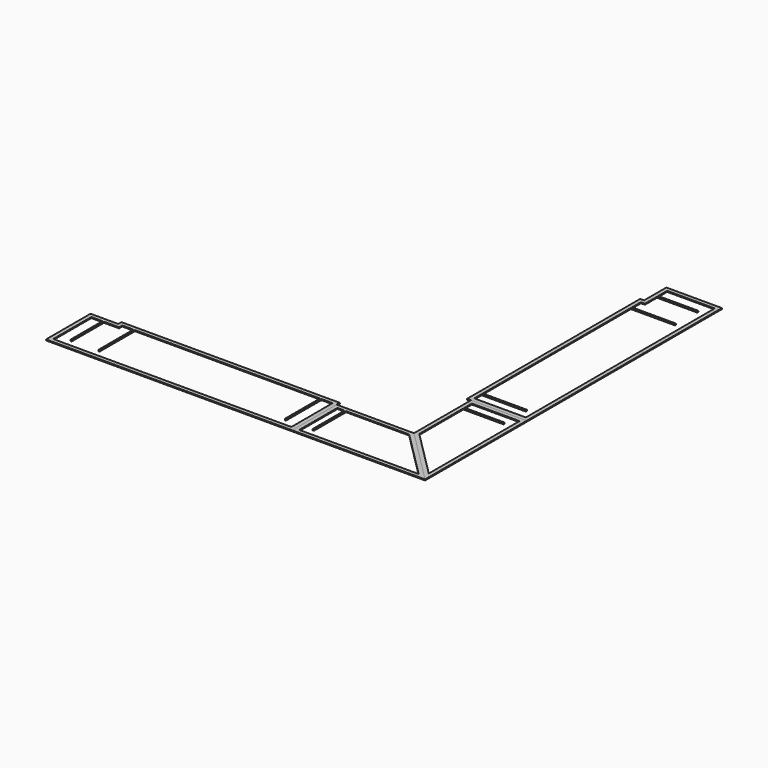
from build123d import *

# Parameters (mm, degrees)
F1_DEPTH = 25.4
F2_DEPTH = 25.4
F3_DEPTH = 25.4
F4_DEPTH = 25.4


with BuildPart() as f1:
    # F0 (on Top) → F1 (new body)
    with BuildSketch(Plane.XY):
        Polygon((0, 0), (0, -1422.4), (6299.2, -1422.4), (6299.2, -1320.8), (6299.2, -101.6), (6299.2, 0), (6299.2, 101.6), (711.2, 101.6), (711.2, 0), align=None)
        Polygon((6197.6, -1320.8), (101.6, -1320.8), (101.6, -101.6), (387.35, -101.6), (425.45, -101.6), (812.8, -101.6), (812.8, 0), (1098.55, 0), (1136.65, 0), (5873.75, 0), (5911.85, 0), (6197.6, 0), (6197.6, -101.6), align=None, mode=Mode.SUBTRACT)
        with BuildLine():
            Line((425.45, -101.6), (387.35, -101.6))
            Line((387.35, -101.6), (387.35, -1117.6))
            ThreePointArc((387.35, -1117.6), (406.4, -1098.55), (425.45, -1117.6))
            Line((425.45, -1117.6), (425.45, -101.6))
        make_face()
        with BuildLine():
            ThreePointArc((425.45, -1117.6), (406.4, -1098.55), (387.35, -1117.6))
            Line((387.35, -1117.6), (425.45, -1117.6))
        make_face()
        with BuildLine():
            Line((425.45, -1117.6), (387.35, -1117.6))
            ThreePointArc((387.35, -1117.6), (406.4, -1136.65), (425.45, -1117.6))
        make_face()
        with BuildLine():
            Line((1136.65, -1117.6), (1136.65, 0))
            Line((1136.65, 0), (1098.55, 0))
            Line((1098.55, 0), (1098.55, -1117.6))
            ThreePointArc((1098.55, -1117.6), (1117.6, -1098.55), (1136.65, -1117.6))
        make_face()
        with BuildLine():
            Line((1098.55, -1117.6), (1136.65, -1117.6))
            ThreePointArc((1136.65, -1117.6), (1117.6, -1098.55), (1098.55, -1117.6))
        make_face()
        with BuildLine():
            ThreePointArc((1098.55, -1117.6), (1117.6, -1136.65), (1136.65, -1117.6))
            Line((1136.65, -1117.6), (1098.55, -1117.6))
        make_face()
        with BuildLine():
            Line((5911.85, -1117.6), (5911.85, 0))
            Line((5911.85, 0), (5873.75, 0))
            Line((5873.75, 0), (5873.75, -1117.6))
            ThreePointArc((5873.75, -1117.6), (5892.8, -1098.55), (5911.85, -1117.6))
        make_face()
        with BuildLine():
            Line((5873.75, -1117.6), (5911.85, -1117.6))
            ThreePointArc((5911.85, -1117.6), (5892.8, -1098.55), (5873.75, -1117.6))
        make_face()
        with BuildLine():
            ThreePointArc((5873.75, -1117.6), (5892.8, -1136.65), (5911.85, -1117.6))
            Line((5911.85, -1117.6), (5873.75, -1117.6))
        make_face()
    extrude(amount=F1_DEPTH)


with BuildPart() as f2:
    # F0 (on Top) → F2 (new body)
    with BuildSketch(Plane.XY):
        Polygon((6299.2, -1320.8), (6299.2, -1422.4), (9702.8, -1422.4), (8280.4, 0), (6400.8, 0), (6299.2, 0), (6299.2, -101.6), align=None)
        Polygon((6400.8, -101.6), (6584.95, -101.6), (6623.05, -101.6), (8238.315902, -101.6), (9457.515902, -1320.8), (6400.8, -1320.8), align=None, mode=Mode.SUBTRACT)
        with BuildLine():
            Line((6623.05, -101.6), (6584.95, -101.6))
            Line((6584.95, -101.6), (6584.95, -1117.6))
            ThreePointArc((6584.95, -1117.6), (6604, -1098.55), (6623.05, -1117.6))
            Line((6623.05, -1117.6), (6623.05, -101.6))
        make_face()
        with BuildLine():
            ThreePointArc((6623.05, -1117.6), (6604, -1098.55), (6584.95, -1117.6))
            Line((6584.95, -1117.6), (6623.05, -1117.6))
        make_face()
        with BuildLine():
            Line((6623.05, -1117.6), (6584.95, -1117.6))
            ThreePointArc((6584.95, -1117.6), (6604, -1136.65), (6623.05, -1117.6))
        make_face()
    extrude(amount=F2_DEPTH)


with BuildPart() as f3:
    # F0 (on Top) → F3 (new body)
    with BuildSketch(Plane.XY):
        Polygon((8280.4, 0), (9702.8, -1422.4), (9702.8, 1828.8), (8382, 1828.8), (8280.4, 1828.8), align=None)
        Polygon((9601.2, -1177.115902), (8382, 42.084098), (8382, 1454.15), (8382, 1492.25), (8382, 1727.2), (9601.2, 1727.2), align=None, mode=Mode.SUBTRACT)
        with BuildLine():
            Line((8382, 1492.25), (8382, 1454.15))
            Line((8382, 1454.15), (9398, 1454.15))
            ThreePointArc((9398, 1454.15), (9378.95, 1473.2), (9398, 1492.25))
            Line((9398, 1492.25), (8382, 1492.25))
        make_face()
        with BuildLine():
            ThreePointArc((9398, 1492.25), (9378.95, 1473.2), (9398, 1454.15))
            Line((9398, 1454.15), (9398, 1492.25))
        make_face()
        with BuildLine():
            Line((9398, 1492.25), (9398, 1454.15))
            ThreePointArc((9398, 1454.15), (9411.470384, 1459.729616), (9417.05, 1473.2))
            ThreePointArc((9417.05, 1473.2), (9411.470384, 1486.670384), (9398, 1492.25))
        make_face()
    extrude(amount=F3_DEPTH)


with BuildPart() as f4:
    # F0 (on Top) → F4 (new body)
    with BuildSketch(Plane.XY):
        Polygon((8382, 1828.8), (9702.8, 1828.8), (9702.8, 8077.2), (8280.4, 8077.2), (8280.4, 7366), (8178.8, 7366), (8178.8, 1828.8), (8280.4, 1828.8), align=None)
        Polygon((9601.2, 1930.4), (8382, 1930.4), (8280.4, 1930.4), (8280.4, 2165.35), (8280.4, 2203.45), (8280.4, 6940.55), (8280.4, 6978.65), (8280.4, 7264.4), (8382, 7264.4), (8382, 7651.75), (8382, 7689.85), (8382, 7975.6), (9601.2, 7975.6), align=None, mode=Mode.SUBTRACT)
        with BuildLine():
            Line((8280.4, 2203.45), (8280.4, 2165.35))
            Line((8280.4, 2165.35), (9398, 2165.35))
            ThreePointArc((9398, 2165.35), (9378.95, 2184.4), (9398, 2203.45))
            Line((9398, 2203.45), (8280.4, 2203.45))
        make_face()
        with BuildLine():
            ThreePointArc((9398, 2203.45), (9378.95, 2184.4), (9398, 2165.35))
            Line((9398, 2165.35), (9398, 2203.45))
        make_face()
        with BuildLine():
            Line((9398, 2203.45), (9398, 2165.35))
            ThreePointArc((9398, 2165.35), (9411.470384, 2170.929616), (9417.05, 2184.4))
            ThreePointArc((9417.05, 2184.4), (9411.470384, 2197.870384), (9398, 2203.45))
        make_face()
        with BuildLine():
            Line((8280.4, 6978.65), (8280.4, 6940.55))
            Line((8280.4, 6940.55), (9398, 6940.55))
            ThreePointArc((9398, 6940.55), (9378.95, 6959.6), (9398, 6978.65))
            Line((9398, 6978.65), (8280.4, 6978.65))
        make_face()
        with BuildLine():
            ThreePointArc((9398, 6978.65), (9378.95, 6959.6), (9398, 6940.55))
            Line((9398, 6940.55), (9398, 6978.65))
        make_face()
        with BuildLine():
            Line((9398, 6978.65), (9398, 6940.55))
            ThreePointArc((9398, 6940.55), (9411.470384, 6946.129616), (9417.05, 6959.6))
            ThreePointArc((9417.05, 6959.6), (9411.470384, 6973.070384), (9398, 6978.65))
        make_face()
        with BuildLine():
            Line((9398, 7689.85), (8382, 7689.85))
            Line((8382, 7689.85), (8382, 7651.75))
            Line((8382, 7651.75), (9398, 7651.75))
            ThreePointArc((9398, 7651.75), (9378.95, 7670.8), (9398, 7689.85))
        make_face()
        with BuildLine():
            Line((9398, 7651.75), (9398, 7689.85))
            ThreePointArc((9398, 7689.85), (9378.95, 7670.8), (9398, 7651.75))
        make_face()
        with BuildLine():
            ThreePointArc((9417.05, 7670.8), (9411.470384, 7684.270384), (9398, 7689.85))
            Line((9398, 7689.85), (9398, 7651.75))
            ThreePointArc((9398, 7651.75), (9411.470384, 7657.329616), (9417.05, 7670.8))
        make_face()
    extrude(amount=F4_DEPTH)


solid = Compound([f1.part, f2.part, f3.part, f4.part])
